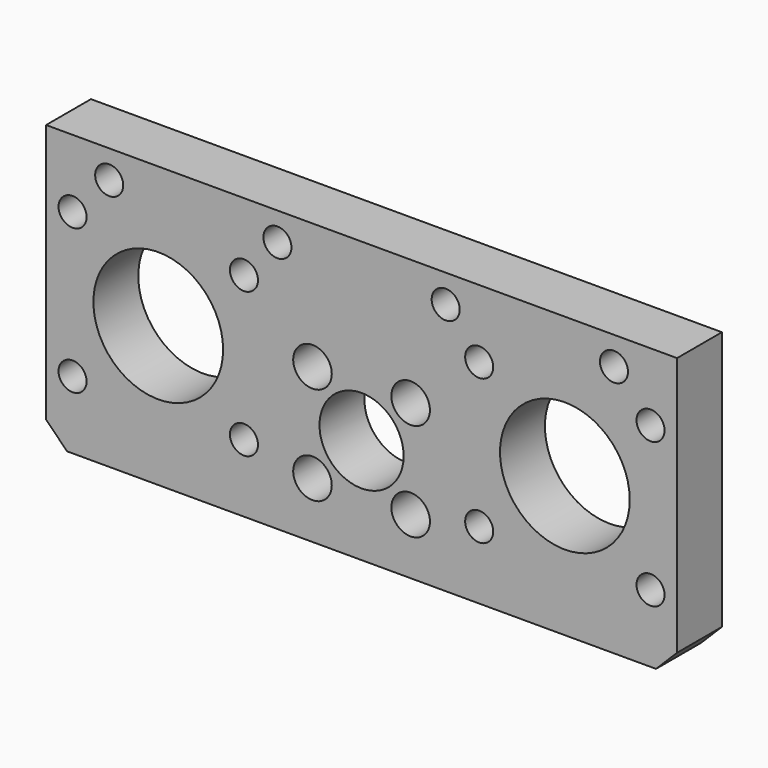
from build123d import *

# Parameters (mm, degrees)
F0_W     = 90
F0_H     = 40
F0_R     = 2
F0_R_2   = 2.75
F0_R_3   = 6
F0_R_4   = 9.25
F1_DEPTH = 8
F2_SIZE  = 3


with BuildPart() as f1:
    # F0 (on Front) → F1 (new body)
    with BuildSketch(Plane.XZ):
        with Locations((45, 20)):
            Rectangle(F0_W, F0_H)
        with Locations((3.779212, 9.672738)):
            Circle(F0_R, mode=Mode.SUBTRACT)
        with Locations((28.220788, 9.672738)):
            Circle(F0_R, mode=Mode.SUBTRACT)
        with Locations((38, 8)):
            Circle(F0_R_2, mode=Mode.SUBTRACT)
        with Locations((52, 8)):
            Circle(F0_R_2, mode=Mode.SUBTRACT)
        with Locations((61.779212, 9.672738)):
            Circle(F0_R, mode=Mode.SUBTRACT)
        with Locations((86.220788, 9.672738)):
            Circle(F0_R, mode=Mode.SUBTRACT)
        with Locations((45, 15)):
            Circle(F0_R_3, mode=Mode.SUBTRACT)
        with Locations((16, 20)):
            Circle(F0_R_4, mode=Mode.SUBTRACT)
        with Locations((38, 22)):
            Circle(F0_R_2, mode=Mode.SUBTRACT)
        with Locations((3.779212, 30.327262)):
            Circle(F0_R, mode=Mode.SUBTRACT)
        with Locations((9, 36)):
            Circle(F0_R, mode=Mode.SUBTRACT)
        with Locations((28.220788, 30.327262)):
            Circle(F0_R, mode=Mode.SUBTRACT)
        with Locations((33, 36)):
            Circle(F0_R, mode=Mode.SUBTRACT)
        with Locations((52, 22)):
            Circle(F0_R_2, mode=Mode.SUBTRACT)
        with Locations((74, 20)):
            Circle(F0_R_4, mode=Mode.SUBTRACT)
        with Locations((61.779212, 30.327262)):
            Circle(F0_R, mode=Mode.SUBTRACT)
        with Locations((57, 36)):
            Circle(F0_R, mode=Mode.SUBTRACT)
        with Locations((86.220788, 30.327262)):
            Circle(F0_R, mode=Mode.SUBTRACT)
        with Locations((81, 36)):
            Circle(F0_R, mode=Mode.SUBTRACT)
    extrude(amount=F1_DEPTH)

    # F2
    f2_edges = [f1.edges().sort_by_distance(p)[0] for p in [
        (0, -4, 0),
        (90, -4, 0),
    ]]
    chamfer(f2_edges, length=F2_SIZE)


solid = f1.part
